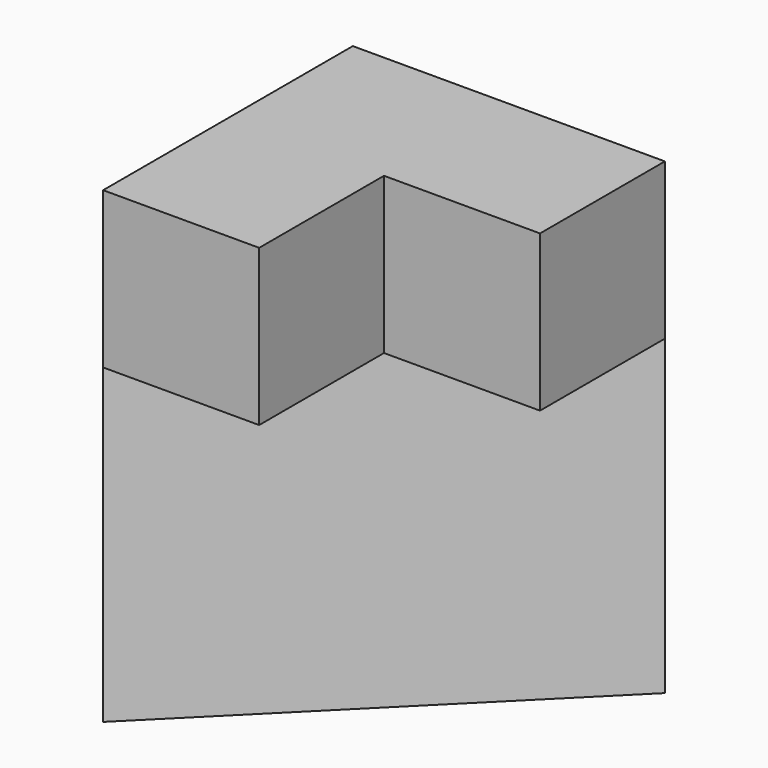
from build123d import *

# Parameters (mm, degrees)
F1_DEPTH = 101.6
F3_DEPTH = 50.8
F4_W     = 50.8
F4_H     = 50.8
F5_DEPTH = 152.401


with BuildPart() as f1:
    # F0 (on Top) → F1 (new body)
    with BuildSketch(Plane.XY):
        Polygon((101.6, 0), (0, 0), (0, -101.6), align=None)
    extrude(amount=F1_DEPTH)

    # F2 (on face) → F3 (join)
    with BuildSketch(Plane.XY.offset(101.6)):
        Polygon((101.6, 0), (0, 0), (0, -101.6), align=None)
        Polygon((101.6, -101.6), (101.6, 0), (0, -101.6), align=None)
    extrude(amount=F3_DEPTH)

    # F4 (on face) → F5 (cut, through all)
    with BuildSketch(Plane.XY.offset(152.4)):
        with Locations((76.2, -76.2)):
            Rectangle(F4_W, F4_H)
    extrude(amount=-F5_DEPTH, mode=Mode.SUBTRACT)


solid = f1.part
